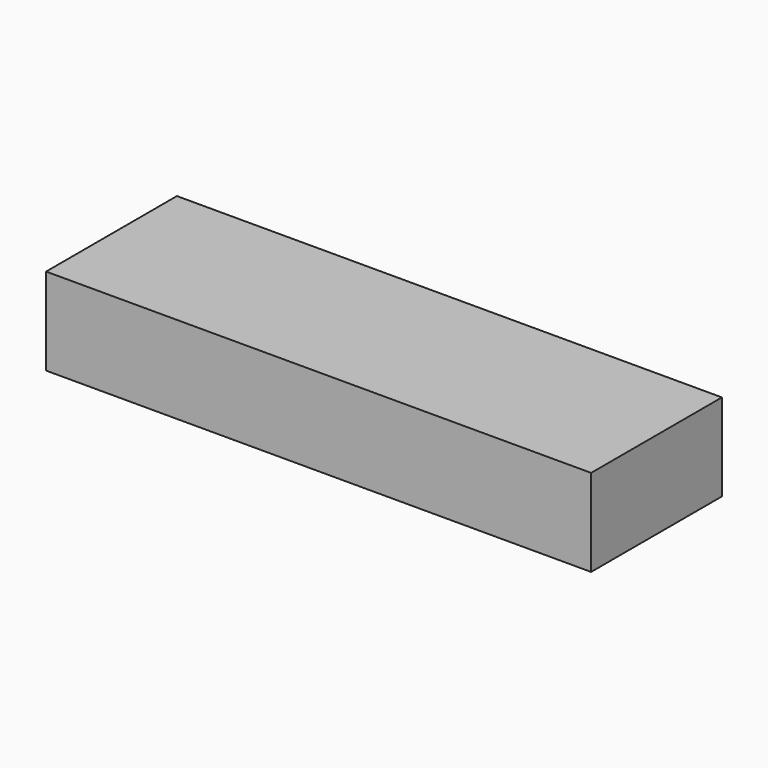
from build123d import *

# Parameters (mm, degrees)
SKETCH_W  = 150
SKETCH_H  = 45
PAD_DEPTH = 24


with BuildPart() as part:
    # Sketch → Pad (new body)
    with BuildSketch(Plane.XY):
        Rectangle(SKETCH_W, SKETCH_H)
    extrude(amount=PAD_DEPTH)


solid = part.part
